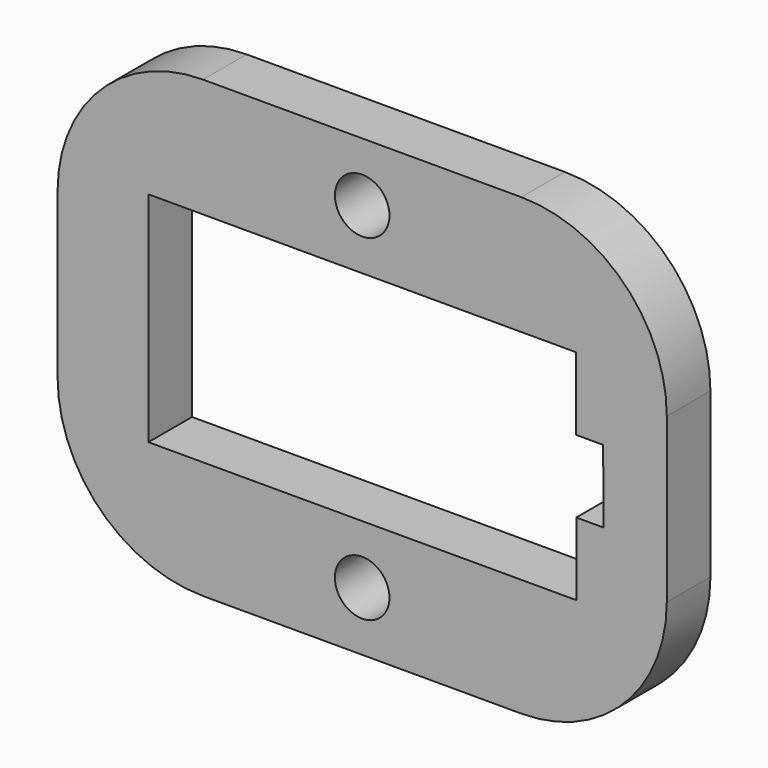
from build123d import *

# Parameters (mm, degrees)
F0_W     = 85.09
F0_H     = 63.5
F0_R     = 3.81
F1_DEPTH = 7.62
F2_R     = 20.32


with BuildPart() as f1:
    # F0 (on Front) → F1 (new body)
    with BuildSketch(Plane.XZ):
        with Locations((-23.506424, 52.040306)):
            Rectangle(F0_W, F0_H)
        with Locations((-23.506424, 28.545306)):
            Circle(F0_R, mode=Mode.SUBTRACT)
        Polygon((-53.364091, 67.207848), (-42.140279, 67.207848), (6.338576, 67.207848), (6.338576, 57.047848), (10.148576, 57.047848), (10.206486, 46.900329), (6.396486, 46.900329), (6.396486, 36.740329), (-53.364091, 36.727848), align=None, mode=Mode.SUBTRACT)
        with Locations((-23.506424, 75.535306)):
            Circle(F0_R, mode=Mode.SUBTRACT)
    extrude(amount=F1_DEPTH)

    # F2
    f2_edges = [f1.edges().sort_by_distance(p)[0] for p in [
        (-66.051424, -3.81, 83.790306),
        (-66.051424, -3.81, 20.290306),
        (19.038576, -3.81, 20.290306),
        (19.038576, -3.81, 83.790306),
    ]]
    fillet(f2_edges, radius=F2_R)


solid = f1.part
